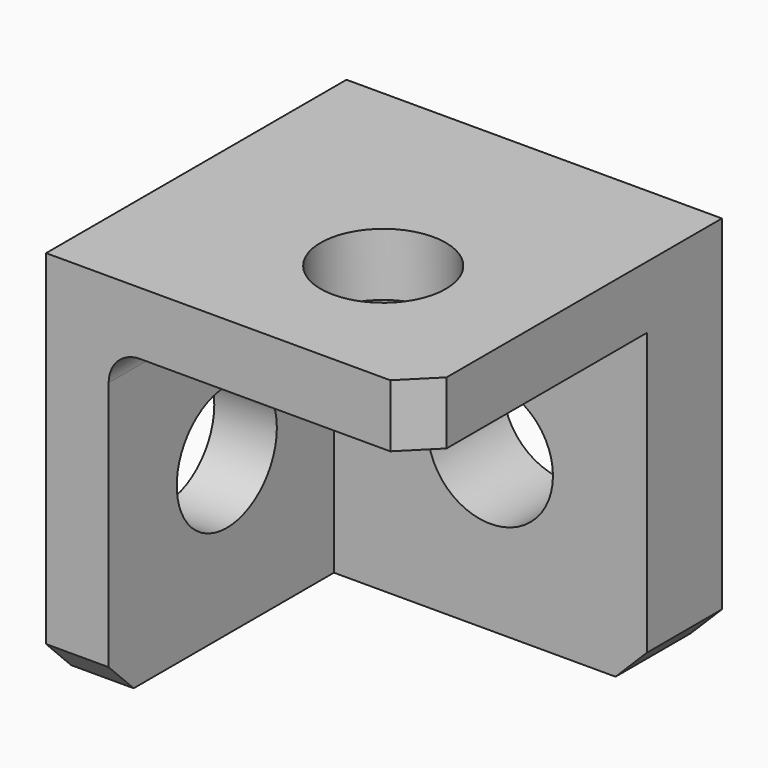
from build123d import *

# Parameters (mm, degrees)
F0_W      = 76.2
F0_H      = 76.2
F1_DEPTH  = 19.05
F3_DEPTH  = 57.15
F4_R      = 12.7
F5_DEPTH  = 12.7
F6_R      = 12.7
F7_DEPTH  = 19.05
F8_R      = 6.35
F9_SIZE   = 6.35
F10_R     = 12.7
F11_DEPTH = 12.7


with BuildPart() as f1:
    # F0 (on Front) → F1 (new body)
    with BuildSketch(Plane.XZ):
        with Locations((-38.1, 38.1)):
            Rectangle(F0_W, F0_H)
    extrude(amount=F1_DEPTH)

    # F2 (on face) → F3 (join)
    with BuildSketch(Plane.XZ.offset(19.05)):
        Polygon((-76.2, 76.2), (-76.2, 0), (-63.5, 0), (-63.5, 63.5), (0, 63.5), (0, 76.2), align=None)
    extrude(amount=F3_DEPTH)

    # F4 (on face) → F5 (cut)
    with BuildSketch(Plane(origin=(0, 0, 63.5), x_dir=(1, 0, 0), z_dir=(0, 0, -1))):
        with Locations((-31.75, 46.228)):
            Circle(F4_R)
    extrude(amount=-F5_DEPTH, mode=Mode.SUBTRACT)

    # F6 (on face) → F7 (cut)
    with BuildSketch(Plane.XZ.offset(19.05)):
        with Locations((-31.75, 31.75)):
            Circle(F6_R)
    extrude(amount=-F7_DEPTH, mode=Mode.SUBTRACT)

    # F8
    f8_edges = [f1.edges().sort_by_distance(p)[0] for p in [
        (-63.5, -47.625, 63.5),
    ]]
    fillet(f8_edges, radius=F8_R)

    # F9
    f9_edges = [f1.edges().sort_by_distance(p)[0] for p in [
        (0, -9.525, 0),
        (-69.85, -76.2, 0),
        (0, -76.2, 69.85),
    ]]
    chamfer(f9_edges, length=F9_SIZE)

    # F10 (on face) → F11 (cut)
    with BuildSketch(Plane.YZ.offset(-63.5)):
        with Locations((-46.228, 31.75)):
            Circle(F10_R)
    extrude(amount=-F11_DEPTH, mode=Mode.SUBTRACT)


solid = f1.part
